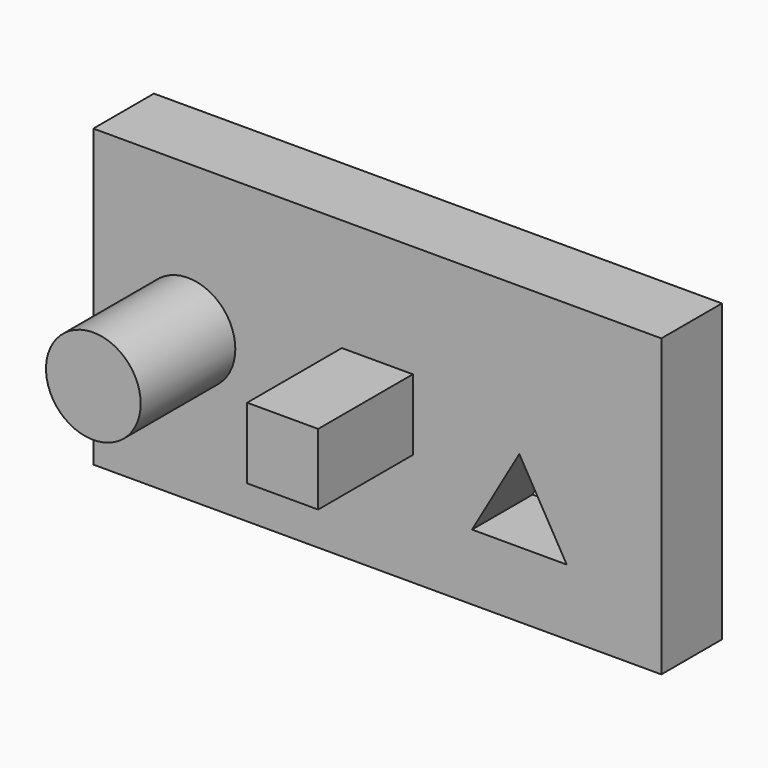
from build123d import *

# Parameters (mm, degrees)
F0_R     = 12.7
F1_DEPTH = 20.32
F2_DEPTH = 20.32
F3_DEPTH = 52.07
F4_DEPTH = 52.07
F6_DEPTH = 20.32


with BuildPart() as f1:
    # F0 (on Front) → F1 (new body)
    with BuildSketch(Plane.XZ):
        Polygon((44.45, -39.6875), (44.45, -39.6748), (44.45, 0), (44.45, 39.6875), (-107.95, 39.6875), (-107.95, -39.6875), align=None)
        Polygon((-6.35, -21.9964), (6.35, 0), (19.05, -21.9964), (6.35, -21.9964), align=None, mode=Mode.SUBTRACT)
        with Locations((-82.55, 0)):
            Circle(F0_R, mode=Mode.SUBTRACT)
        Polygon((-22.225, 9.525), (-22.225, 0), (-22.225, -9.525), (-41.275, -9.525), (-41.275, 0), (-41.275, 9.525), align=None, mode=Mode.SUBTRACT)
    extrude(amount=F1_DEPTH)

    # F0 (on Front) → F2 (cut)
    with BuildSketch(Plane.XZ):
        Polygon((19.05, -21.9964), (6.35, 0), (6.35, -21.9964), align=None)
        Polygon((6.35, -21.9964), (6.35, 0), (-6.35, -21.9964), align=None)
    extrude(amount=F2_DEPTH, mode=Mode.SUBTRACT)

    # F0 (on Front) → F3 (join)
    with BuildSketch(Plane.XZ):
        with Locations((-82.55, 0)):
            Circle(F0_R)
    extrude(amount=F3_DEPTH)

    # F0 (on Front) → F4 (join)
    with BuildSketch(Plane.XZ):
        Polygon((-31.75, 0), (-22.225, 0), (-22.225, 9.525), (-41.275, 9.525), (-41.275, 0), align=None)
        Polygon((-22.225, -9.525), (-22.225, 0), (-31.75, 0), (-41.275, 0), (-41.275, -9.525), align=None)
    extrude(amount=F4_DEPTH)

    # F5 (on Front) → F6 (cut, symmetric)
    with BuildSketch(Plane.XZ):
        Polygon((-22.225, 9.525), (-41.275, 9.525), (-41.275, -9.525), (-22.225, -9.525), (-22.225, 0), align=None)
    extrude(amount=F6_DEPTH, both=True, mode=Mode.SUBTRACT)


solid = f1.part
